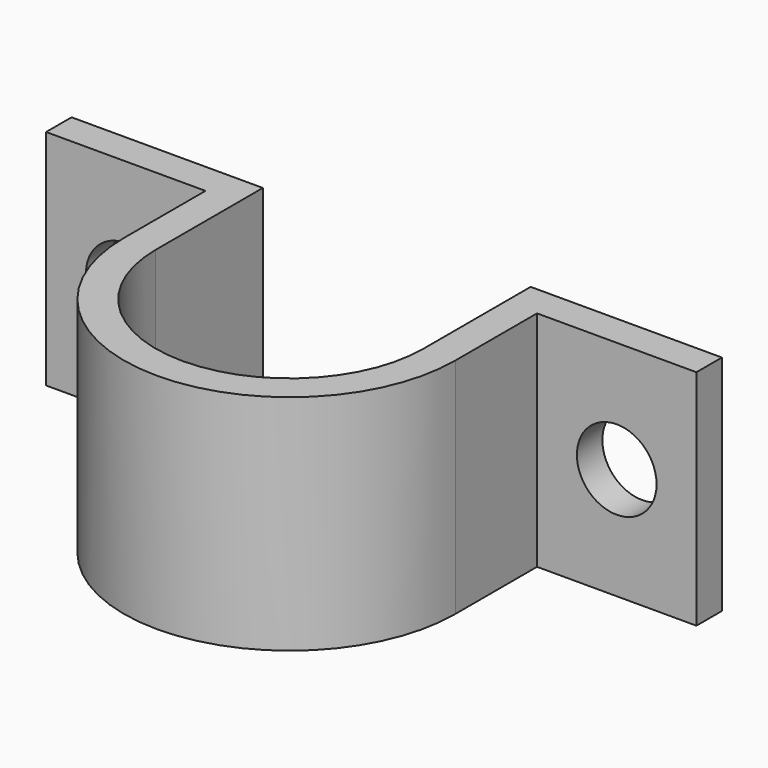
from build123d import *

# Parameters (mm, degrees)
F1_DEPTH = 17.78
F2_R     = 3.175
F3_DEPTH = 2.541


with BuildPart() as f1:
    # F0 (on Top) → F1 (new body)
    with BuildSketch(Plane.XY):
        with BuildLine():
            Line((-16.804146, -14.937672), (-29.504146, -14.937672))
            Line((-29.504146, -14.937672), (-29.504146, -17.477672))
            Line((-29.504146, -17.477672), (-16.804146, -17.477672))
            Line((-16.804146, -17.477672), (-16.804146, -25.605672))
            ThreePointArc((-16.804146, -25.605672), (-3.596146, -38.813672), (9.611854, -25.605672))
            Line((9.611854, -25.605672), (9.611854, -17.477672))
            Line((9.611854, -17.477672), (22.311854, -17.477672))
            Line((22.311854, -17.477672), (22.311854, -14.937672))
            Line((22.311854, -14.937672), (9.611854, -14.937672))
            Line((9.611854, -14.937672), (7.071854, -14.937672))
            Line((7.071854, -14.937672), (7.071854, -25.605672))
            ThreePointArc((7.071854, -25.605672), (-3.596146, -36.273672), (-14.264146, -25.605672))
            Line((-14.264146, -25.605672), (-14.264146, -14.937672))
            Line((-14.264146, -14.937672), (-16.804146, -14.937672))
        make_face()
    extrude(amount=F1_DEPTH)

    # F2 (on face) → F3 (cut, through all)
    with BuildSketch(Plane.XZ.offset(17.477672)):
        with Locations((-23.154146, 8.89)):
            Circle(F2_R)
        with Locations((15.961854, 8.89)):
            Circle(F2_R)
    extrude(amount=-F3_DEPTH, mode=Mode.SUBTRACT)


solid = f1.part
